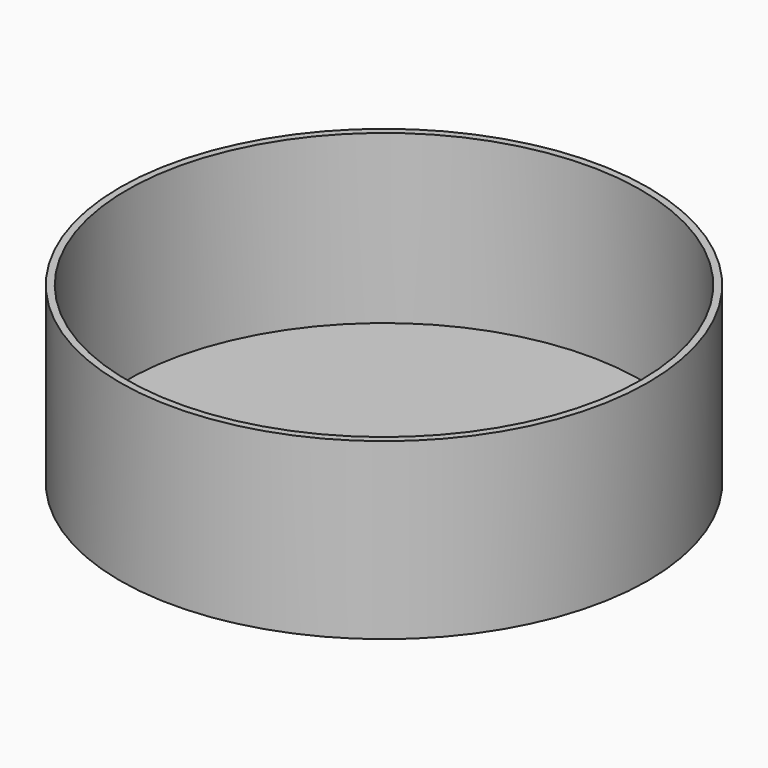
from build123d import *

# Parameters (mm, degrees)
SKETCH113_R     = 75.75
PAD051_DEPTH    = 50
THICKNESS001_T  = -2
SKETCH114_R     = 8
POCKET112_DEPTH = 2.001


with BuildPart() as part:
    # Sketch113 → Pad051 (new body)
    with BuildSketch(Plane.XY.offset(-30)):
        Circle(SKETCH113_R)
    extrude(amount=-PAD051_DEPTH)

    # Thickness001
    thickness001_openings = [part.faces().sort_by_distance(p)[0] for p in [
        (0, 0, -30),
    ]]
    offset(amount=THICKNESS001_T, openings=thickness001_openings)

    # Sketch114 (on Face5 of Thickness001) → Pocket112 (cut, through all)
    with BuildSketch(Plane.XY.offset(-78)):
        Circle(SKETCH114_R)
    extrude(amount=-POCKET112_DEPTH, mode=Mode.SUBTRACT)


with BuildPart() as part_1:
    # Body007 placement: moved
    add(part.part.moved(Location((0, 0, 5.75))))


solid = part_1.part
